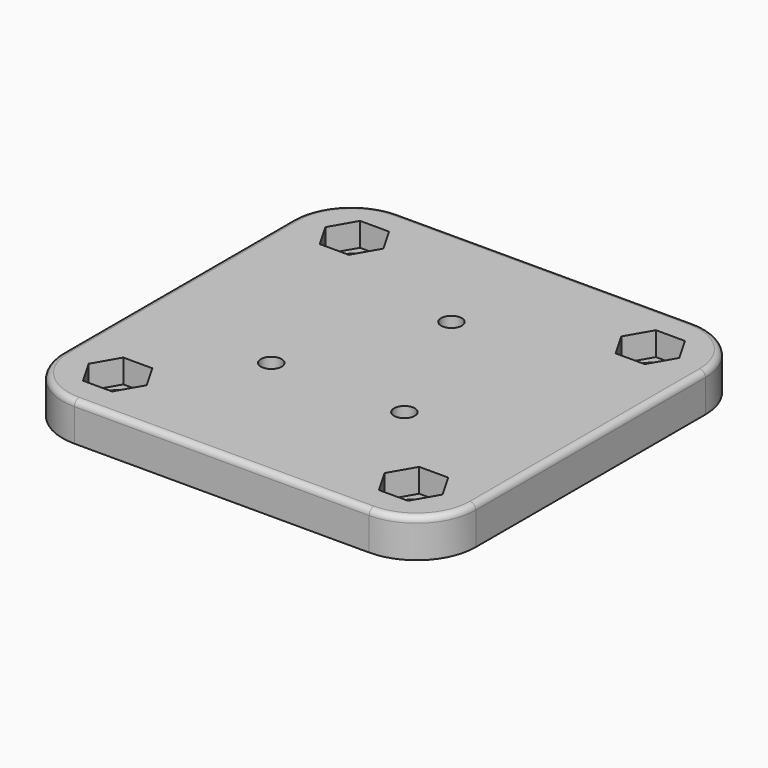
from build123d import *

# Parameters (mm, degrees)
F0_R     = 8
F0_R_2   = 6.5
F0_R_3   = 3.5
F1_DEPTH = 13
F2_DEPTH = 13
F3_DEPTH = 7
F4_DEPTH = 13
F5_DEPTH = 5
F6_DEPTH = 5
F7_R     = 2


with BuildPart() as f1:
    # F0 (on Top) → F1 (new body)
    with BuildSketch(Plane.XY):
        with BuildLine():
            Line((99.814955, 18.5), (0.185045, 18.5))
            ThreePointArc((0.185045, 18.5), (-13.95709, 12.642136), (-19.814955, -1.5))
            Line((-19.814955, -1.5), (-19.814955, -98.5))
            ThreePointArc((-19.814955, -98.5), (-13.95709, -112.642136), (0.185045, -118.5))
            Line((0.185045, -118.5), (99.814955, -118.5))
            ThreePointArc((99.814955, -118.5), (113.95709, -112.642136), (119.814955, -98.5))
            Line((119.814955, -98.5), (119.814955, -1.5))
            ThreePointArc((119.814955, -1.5), (113.95709, 12.642136), (99.814955, 18.5))
        make_face()
        Polygon((9.814955, -100), (4.907477, -108.5), (-4.907477, -108.5), (-9.814955, -100), (-4.907477, -91.5), (4.907477, -91.5), align=None, mode=Mode.SUBTRACT)
        with Locations((27.5, -69.5)):
            Circle(F0_R, mode=Mode.SUBTRACT)
        Polygon((109.814955, -100), (104.907477, -108.5), (95.092523, -108.5), (90.185045, -100), (95.092523, -91.5), (104.907477, -91.5), align=None, mode=Mode.SUBTRACT)
        with Locations((72.5, -69.5)):
            Circle(F0_R, mode=Mode.SUBTRACT)
        with Locations((50, -21.5)):
            Circle(F0_R, mode=Mode.SUBTRACT)
        Polygon((9.814955, 0), (4.907477, -8.5), (-4.907477, -8.5), (-9.814955, 0), (-4.907477, 8.5), (4.907477, 8.5), align=None, mode=Mode.SUBTRACT)
        Polygon((109.814955, 0), (104.907477, -8.5), (95.092523, -8.5), (90.185045, 0), (95.092523, 8.5), (104.907477, 8.5), align=None, mode=Mode.SUBTRACT)
        Polygon((-4.907477, -8.5), (4.907477, -8.5), (9.814955, 0), (4.907477, 8.5), (-4.907477, 8.5), (-9.814955, 0), align=None)
        Circle(F0_R_2, mode=Mode.SUBTRACT)
        with Locations((50, -21.5)):
            Circle(F0_R)
        with Locations((50, -21.5)):
            Circle(F0_R_3, mode=Mode.SUBTRACT)
        with Locations((50, -21.5)):
            Circle(F0_R_3)
        Polygon((95.092523, -8.5), (104.907477, -8.5), (109.814955, 0), (104.907477, 8.5), (95.092523, 8.5), (90.185045, 0), align=None)
        with Locations((100, 0)):
            Circle(F0_R_2, mode=Mode.SUBTRACT)
        with Locations((72.5, -69.5)):
            Circle(F0_R)
        with Locations((72.5, -69.5)):
            Circle(F0_R_3, mode=Mode.SUBTRACT)
        with Locations((72.5, -69.5)):
            Circle(F0_R_3)
        with Locations((27.5, -69.5)):
            Circle(F0_R)
        with Locations((27.5, -69.5)):
            Circle(F0_R_3, mode=Mode.SUBTRACT)
        with Locations((27.5, -69.5)):
            Circle(F0_R_3)
        Polygon((-4.907477, -108.5), (4.907477, -108.5), (9.814955, -100), (4.907477, -91.5), (-4.907477, -91.5), (-9.814955, -100), align=None)
        with Locations((0, -100)):
            Circle(F0_R_2, mode=Mode.SUBTRACT)
        Polygon((95.092523, -108.5), (104.907477, -108.5), (109.814955, -100), (104.907477, -91.5), (95.092523, -91.5), (90.185045, -100), align=None)
        with Locations((100, -100)):
            Circle(F0_R_2, mode=Mode.SUBTRACT)
    extrude(amount=F1_DEPTH)

    # F0 (on Top) → F2 (cut, through all)
    with BuildSketch(Plane.XY):
        Polygon((-4.907477, -8.5), (4.907477, -8.5), (9.814955, 0), (4.907477, 8.5), (-4.907477, 8.5), (-9.814955, 0), align=None)
        Circle(F0_R_2, mode=Mode.SUBTRACT)
        Polygon((95.092523, -108.5), (104.907477, -108.5), (109.814955, -100), (104.907477, -91.5), (95.092523, -91.5), (90.185045, -100), align=None)
        with Locations((100, -100)):
            Circle(F0_R_2, mode=Mode.SUBTRACT)
        Polygon((-4.907477, -108.5), (4.907477, -108.5), (9.814955, -100), (4.907477, -91.5), (-4.907477, -91.5), (-9.814955, -100), align=None)
        with Locations((0, -100)):
            Circle(F0_R_2, mode=Mode.SUBTRACT)
        Polygon((95.092523, -8.5), (104.907477, -8.5), (109.814955, 0), (104.907477, 8.5), (95.092523, 8.5), (90.185045, 0), align=None)
        with Locations((100, 0)):
            Circle(F0_R_2, mode=Mode.SUBTRACT)
    extrude(amount=F2_DEPTH, mode=Mode.SUBTRACT)

    # F0 (on Top) → F3 (cut)
    with BuildSketch(Plane.XY):
        with Locations((72.5, -69.5)):
            Circle(F0_R)
        with Locations((72.5, -69.5)):
            Circle(F0_R_3, mode=Mode.SUBTRACT)
        with Locations((27.5, -69.5)):
            Circle(F0_R)
        with Locations((27.5, -69.5)):
            Circle(F0_R_3, mode=Mode.SUBTRACT)
        with Locations((50, -21.5)):
            Circle(F0_R)
        with Locations((50, -21.5)):
            Circle(F0_R_3, mode=Mode.SUBTRACT)
    extrude(amount=F3_DEPTH, mode=Mode.SUBTRACT)

    # F0 (on Top) → F4 (cut, through all)
    with BuildSketch(Plane.XY):
        with Locations((27.5, -69.5)):
            Circle(F0_R_3)
        with Locations((72.5, -69.5)):
            Circle(F0_R_3)
        with Locations((50, -21.5)):
            Circle(F0_R_3)
    extrude(amount=F4_DEPTH, mode=Mode.SUBTRACT)

    # F0 (on Top) → F5 (join)
    with BuildSketch(Plane.XY):
        Polygon((-4.907477, -8.5), (4.907477, -8.5), (9.814955, 0), (4.907477, 8.5), (-4.907477, 8.5), (-9.814955, 0), align=None)
        Circle(F0_R_2, mode=Mode.SUBTRACT)
        Polygon((95.092523, -8.5), (104.907477, -8.5), (109.814955, 0), (104.907477, 8.5), (95.092523, 8.5), (90.185045, 0), align=None)
        with Locations((100, 0)):
            Circle(F0_R_2, mode=Mode.SUBTRACT)
        Polygon((95.092523, -108.5), (104.907477, -108.5), (109.814955, -100), (104.907477, -91.5), (95.092523, -91.5), (90.185045, -100), align=None)
        with Locations((100, -100)):
            Circle(F0_R_2, mode=Mode.SUBTRACT)
        Polygon((-4.907477, -108.5), (4.907477, -108.5), (9.814955, -100), (4.907477, -91.5), (-4.907477, -91.5), (-9.814955, -100), align=None)
        with Locations((0, -100)):
            Circle(F0_R_2, mode=Mode.SUBTRACT)
    extrude(amount=F5_DEPTH)

    # F0 (on Top) → F6 (cut, through all)
    with BuildSketch(Plane.XY):
        Circle(F0_R_2)
        with Locations((100, 0)):
            Circle(F0_R_2)
        with Locations((100, -100)):
            Circle(F0_R_2)
        with Locations((0, -100)):
            Circle(F0_R_2)
    extrude(amount=F6_DEPTH, mode=Mode.SUBTRACT)

    # F7
    f7_edges = [f1.edges().sort_by_distance(p)[0] for p in [
        (119.814955, -50, 13),
    ]]
    fillet(f7_edges, radius=F7_R)


solid = f1.part
